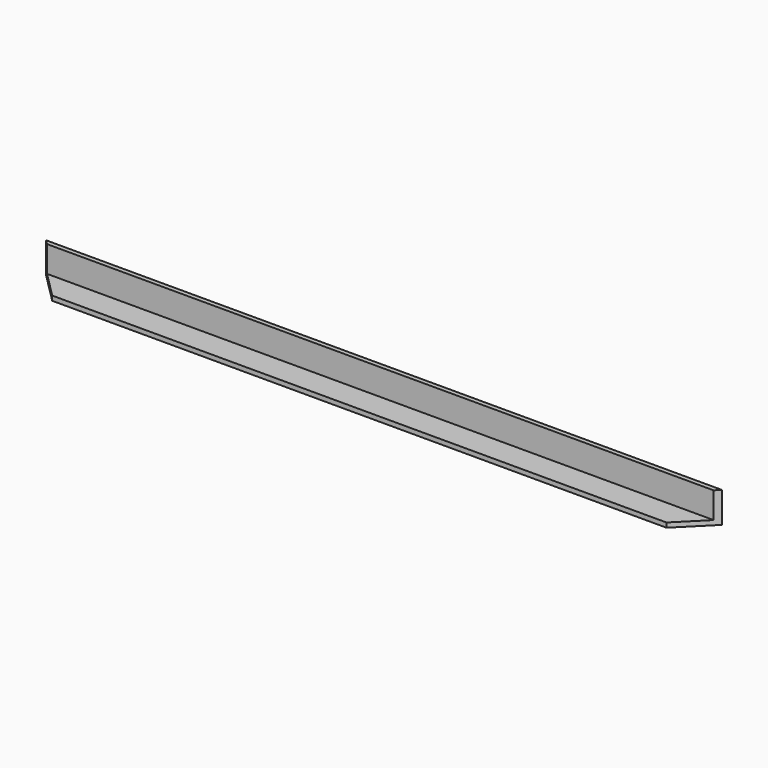
from build123d import *

# Parameters (mm, degrees)
F1_DEPTH = 15
F3_DEPTH = 85


with BuildPart() as f1:
    # F0 (on Top) → F1 (new body)
    with BuildSketch(Plane.XY):
        Polygon((-1097.5, 100), (1097.5, 100), (997.5, 200), (-997.5, 200), align=None)
    extrude(amount=F1_DEPTH)

    # F2 (on face) → F3 (join)
    with BuildSketch(Plane.XY.offset(15)):
        Polygon((-1097.5, 100), (1097.5, 100), (1082.5, 115), (-1082.5, 115), align=None)
    extrude(amount=F3_DEPTH)


with BuildPart() as f5_1:
    # F5: instance of F1
    add(f1.part.mirror(Plane(origin=(0, 2090.5, 50), x_dir=(1, 0, 0), z_dir=(0, -1, 0))))


solid = f5_1.part
